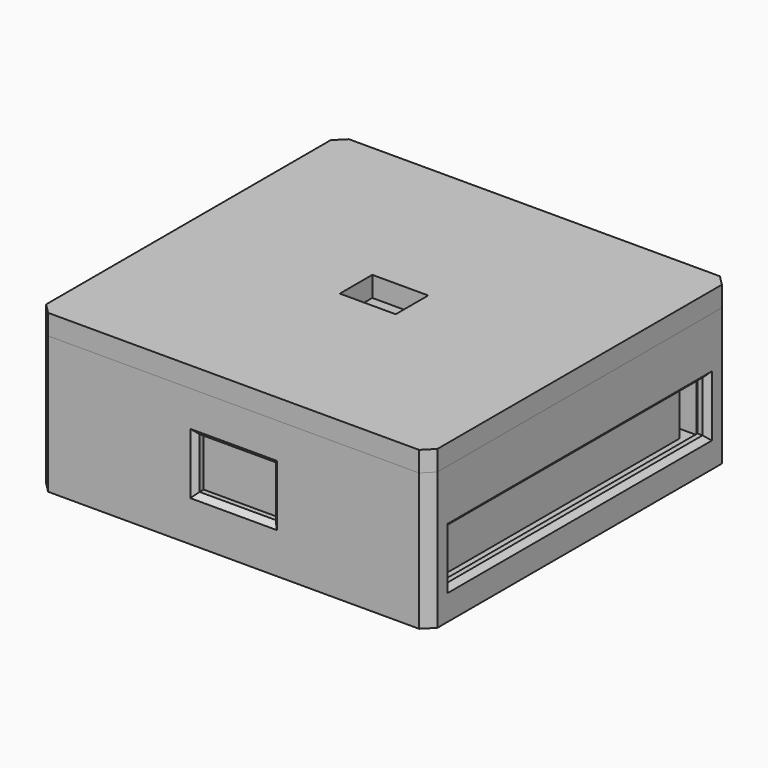
from build123d import *

# Parameters (mm, degrees)
SKETCH_W        = 66
SKETCH_H        = 63
PAD_DEPTH       = 17
SKETCH001_R     = 1.5
POCKET_DEPTH    = 17
SKETCH002_R     = 1.5
POCKET001_DEPTH = 17
SKETCH003_R     = 1.5
POCKET002_DEPTH = 17
SKETCH004_R     = 1.5
POCKET003_DEPTH = 17
SKETCH005_W     = 77
SKETCH005_H     = 74
PAD001_DEPTH    = 27
SKETCH006_W     = 71
SKETCH006_H     = 68
POCKET004_DEPTH = 23
SKETCH007_R     = 2.5
PAD002_DEPTH    = 2
SKETCH008_R     = 2.5
PAD003_DEPTH    = 2
SKETCH009_R     = 2.5
PAD004_DEPTH    = 2
SKETCH010_R     = 2.5
PAD005_DEPTH    = 2
SKETCH011_R     = 1.4
PAD006_DEPTH    = 6
SKETCH012_R     = 1.4
PAD007_DEPTH    = 6
SKETCH013_R     = 1.4
PAD008_DEPTH    = 6
SKETCH014_R     = 1.4
PAD009_DEPTH    = 6
SKETCH015_W     = 63
SKETCH015_H     = 10
POCKET005_DEPTH = 3
SKETCH016_W     = 63
SKETCH016_H     = 10
POCKET006_DEPTH = 3
SKETCH017_W     = 15
SKETCH017_H     = 10
POCKET007_DEPTH = 3
SKETCH018_W     = 44
SKETCH018_H     = 42
POCKET008_DEPTH = 4
CHAMFER_SIZE    = 1
CHAMFER001_SIZE = 2
CHAMFER002_SIZE = 1
CHAMFER003_SIZE = 1
SKETCH019_W     = 77
SKETCH019_H     = 74
PAD010_DEPTH    = 4
CHAMFER004_SIZE = 2
SKETCH020_W     = 11
SKETCH020_H     = 8
POCKET009_DEPTH = 4


with BuildPart() as obj1:
    # Sketch → Pad (new body)
    with BuildSketch(Plane.XY):
        Rectangle(SKETCH_W, SKETCH_H)
    extrude(amount=PAD_DEPTH)

    # Sketch001 (on Face6 of Pad) → Pocket (cut)
    with BuildSketch(Plane.XY.offset(17)):
        with Locations((30.5, 29)):
            Circle(SKETCH001_R)
    extrude(amount=-POCKET_DEPTH, mode=Mode.SUBTRACT)

    # Sketch002 (on Face5 of Pocket) → Pocket001 (cut)
    with BuildSketch(Plane.XY.offset(17)):
        with Locations((30.5, -29)):
            Circle(SKETCH002_R)
    extrude(amount=-POCKET001_DEPTH, mode=Mode.SUBTRACT)

    # Sketch003 (on Face5 of Pocket001) → Pocket002 (cut)
    with BuildSketch(Plane.XY.offset(17)):
        with Locations((-30.5, -29)):
            Circle(SKETCH003_R)
    extrude(amount=-POCKET002_DEPTH, mode=Mode.SUBTRACT)

    # Sketch004 (on Face5 of Pocket002) → Pocket003 (cut)
    with BuildSketch(Plane.XY.offset(17)):
        with Locations((-30.5, 29)):
            Circle(SKETCH004_R)
    extrude(amount=-POCKET003_DEPTH, mode=Mode.SUBTRACT)


with BuildPart() as esp32_housing:
    # Sketch005 → Pad001 (new body)
    with BuildSketch(Plane.XY):
        Rectangle(SKETCH005_W, SKETCH005_H)
    extrude(amount=PAD001_DEPTH)

    # Sketch006 (on Face6 of Pad001) → Pocket004 (cut)
    with BuildSketch(Plane.XY.offset(27)):
        Rectangle(SKETCH006_W, SKETCH006_H)
    extrude(amount=-POCKET004_DEPTH, mode=Mode.SUBTRACT)

    # Sketch007 (on Face11 of Pocket004) → Pad002 (join)
    with BuildSketch(Plane.XY.offset(4)):
        with Locations((30.5, 29)):
            Circle(SKETCH007_R)
    extrude(amount=PAD002_DEPTH)

    # Sketch008 (on Face11 of Pocket004) → Pad003 (join)
    with BuildSketch(Plane.XY.offset(4)):
        with Locations((30.5, -29)):
            Circle(SKETCH008_R)
    extrude(amount=PAD003_DEPTH)

    # Sketch009 (on Face11 of Pocket004) → Pad004 (join)
    with BuildSketch(Plane.XY.offset(4)):
        with Locations((-30.5, -29)):
            Circle(SKETCH009_R)
    extrude(amount=PAD004_DEPTH)

    # Sketch010 (on Face11 of Pocket004) → Pad005 (join)
    with BuildSketch(Plane.XY.offset(4)):
        with Locations((-30.5, 29)):
            Circle(SKETCH010_R)
    extrude(amount=PAD005_DEPTH)

    # Sketch011 (on Face11 of Pad005) → Pad006 (join)
    with BuildSketch(Plane.XY.offset(4)):
        with Locations((30.5, 29)):
            Circle(SKETCH011_R)
    extrude(amount=PAD006_DEPTH)

    # Sketch012 (on Face11 of Pad005) → Pad007 (join)
    with BuildSketch(Plane.XY.offset(4)):
        with Locations((30.5, -29)):
            Circle(SKETCH012_R)
    extrude(amount=PAD007_DEPTH)

    # Sketch013 (on Face11 of Pad005) → Pad008 (join)
    with BuildSketch(Plane.XY.offset(4)):
        with Locations((-30.5, -29)):
            Circle(SKETCH013_R)
    extrude(amount=PAD008_DEPTH)

    # Sketch014 (on Face11 of Pad005) → Pad009 (join)
    with BuildSketch(Plane.XY.offset(4)):
        with Locations((-30.5, 29)):
            Circle(SKETCH014_R)
    extrude(amount=PAD009_DEPTH)

    # Sketch015 (on Face1 of Pad009) → Pocket005 (cut)
    with BuildSketch(Plane(origin=(-38.5, 0, 0), x_dir=(0, -1, 0), z_dir=(-1, 0, 0))):
        with Locations((0, 11)):
            Rectangle(SKETCH015_W, SKETCH015_H)
    extrude(amount=-POCKET005_DEPTH, mode=Mode.SUBTRACT)

    # Sketch016 (on Face10 of Pocket005) → Pocket006 (cut)
    with BuildSketch(Plane.YZ.offset(38.5)):
        with Locations((0, 11)):
            Rectangle(SKETCH016_W, SKETCH016_H)
    extrude(amount=-POCKET006_DEPTH, mode=Mode.SUBTRACT)

    # Sketch017 (on Face5 of Pocket006) → Pocket007 (cut)
    with BuildSketch(Plane.XZ.offset(37)):
        with Locations((0, 14)):
            Rectangle(SKETCH017_W, SKETCH017_H)
    extrude(amount=-POCKET007_DEPTH, mode=Mode.SUBTRACT)

    # Sketch018 (on Face3 of Pocket007) → Pocket008 (cut)
    with BuildSketch(Plane(origin=(0, 0, 0), x_dir=(1, 0, 0), z_dir=(0, 0, -1))):
        Rectangle(SKETCH018_W, SKETCH018_H)
    extrude(amount=-POCKET008_DEPTH, mode=Mode.SUBTRACT)

    # Chamfer
    chamfer_edges = [esp32_housing.edges().sort_by_distance(p)[0] for p in [
        (0, -37, 9),
        (-7.5, -37, 14),
        (-7.5, -34, 14),
        (0, -34, 9),
        (0, -37, 19),
        (0, -34, 19),
        (7.5, -34, 14),
        (7.5, -37, 14),
    ]]
    chamfer(chamfer_edges, length=CHAMFER_SIZE)

    # Chamfer001
    chamfer001_edges = [esp32_housing.edges().sort_by_distance(p)[0] for p in [
        (-38.5, -37, 13.5),
        (38.5, -37, 13.5),
        (-38.5, 37, 13.5),
        (38.5, 37, 13.5),
    ]]
    chamfer(chamfer001_edges, length=CHAMFER001_SIZE)

    # Chamfer002
    chamfer002_edges = [esp32_housing.edges().sort_by_distance(p)[0] for p in [
        (22, 0, 0),
        (22, 0, 4),
        (0, 21, 0),
        (0, 21, 4),
        (-22, 0, 4),
        (-22, 0, 0),
        (0, -21, 0),
        (0, -21, 4),
    ]]
    chamfer(chamfer002_edges, length=CHAMFER002_SIZE)

    # Chamfer003
    chamfer003_edges = [esp32_housing.edges().sort_by_distance(p)[0] for p in [
        (-38.5, -31.5, 11),
        (-38.5, 0, 6),
        (-38.5, 0, 16),
        (-35.5, 0, 6),
        (-35.5, -31.5, 11),
        (-35.5, 0, 16),
        (-35.5, 31.5, 11),
        (-38.5, 31.5, 11),
        (38.5, 0, 6),
        (35.5, 0, 6),
        (35.5, 31.5, 11),
        (38.5, 31.5, 11),
        (35.5, 0, 16),
        (35.5, -31.5, 11),
        (38.5, -31.5, 11),
        (38.5, 0, 16),
    ]]
    chamfer(chamfer003_edges, length=CHAMFER003_SIZE)


with BuildPart() as esp32_housing_lid:
    # Sketch019 → Pad010 (new body)
    with BuildSketch(Plane.XY.offset(27)):
        Rectangle(SKETCH019_W, SKETCH019_H)
    extrude(amount=PAD010_DEPTH)

    # Chamfer004
    chamfer004_edges = [esp32_housing_lid.edges().sort_by_distance(p)[0] for p in [
        (-38.5, -37, 29),
        (38.5, -37, 29),
        (-38.5, 37, 29),
        (38.5, 37, 29),
    ]]
    chamfer(chamfer004_edges, length=CHAMFER004_SIZE)

    # Sketch020 (on Face5 of Chamfer004) → Pocket009 (cut)
    with BuildSketch(Plane.XY.offset(31)):
        Rectangle(SKETCH020_W, SKETCH020_H)
    extrude(amount=-POCKET009_DEPTH, mode=Mode.SUBTRACT)


solid = Compound([obj1.part, esp32_housing.part, esp32_housing_lid.part])
